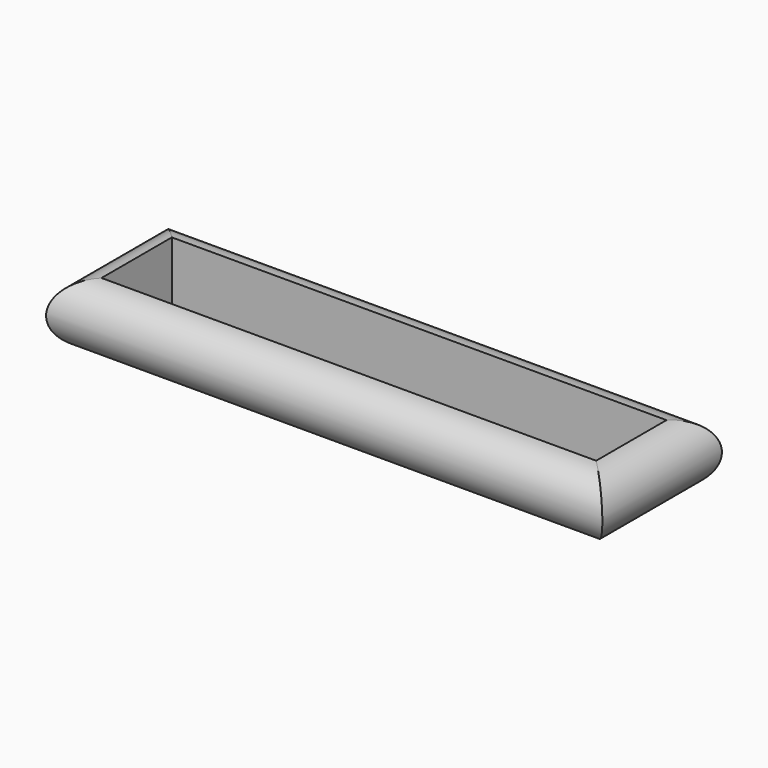
from build123d import *


with BuildPart() as f2:
    # F2: sweep along a path in F0
    with BuildLine(Plane.XY) as f2_path:
        Line((0, 0), (0, 8))
        Line((0, 8), (-45, 8))
        Line((-45, 8), (-45, 0))
        Line((-45, 0), (0, 0))
    # F1 (on Front) → F2 (sweep)
    with BuildSketch(Plane.XZ):
        with BuildLine():
            Line((0, 2.8), (0, 0))
            Line((0, 0), (0, -2.8))
            ThreePointArc((0, -2.8), (2.8, 0), (0, 2.8))
        make_face()
    sweep(path=f2_path.line, transition=Transition.RIGHT)


solid = f2.part
